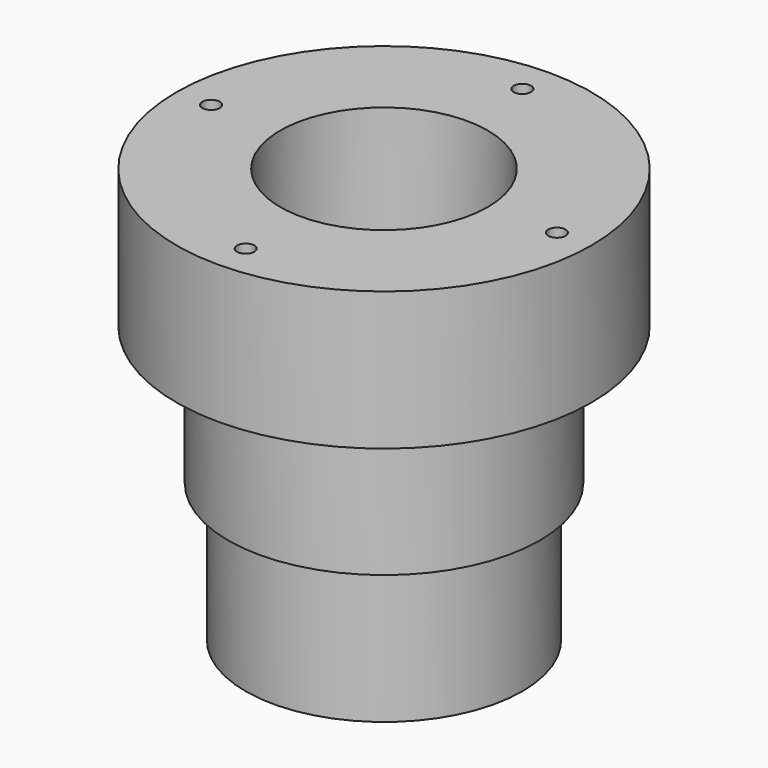
from build123d import *

# Parameters (mm, degrees)
SKETCH_R          = 6
SKETCH_R_2        = 3
SKETCH_R_3        = 0.25
PAD_DEPTH         = 12
CYLINDER_R        = 6
CYLINDER_DEPTH    = 8
CYLINDER001_R     = 4.5
CYLINDER001_DEPTH = 8
CYLINDER002_R     = 4.5
CYLINDER002_DEPTH = 4
CYLINDER003_R     = 4
CYLINDER003_DEPTH = 4
CYLINDER004_R     = 3.5
CYLINDER004_DEPTH = 8


with BuildPart() as part:
    # Sketch → Pad (new body)
    with BuildSketch(Plane.XY):
        Circle(SKETCH_R)
        Circle(SKETCH_R_2, mode=Mode.SUBTRACT)
        with Locations((-5, 0)):
            Circle(SKETCH_R_3, mode=Mode.SUBTRACT)
        with Locations((5, 0)):
            Circle(SKETCH_R_3, mode=Mode.SUBTRACT)
        with Locations((0, 5)):
            Circle(SKETCH_R_3, mode=Mode.SUBTRACT)
        with Locations((0, -5)):
            Circle(SKETCH_R_3, mode=Mode.SUBTRACT)
    extrude(amount=PAD_DEPTH)

    # Cylinder → Cylinder (cut)
    with BuildSketch(Plane.XY):
        Circle(CYLINDER_R)
    extrude(amount=CYLINDER_DEPTH, mode=Mode.SUBTRACT)

    # Cylinder001 → Cylinder001 (join)
    with BuildSketch(Plane.XY):
        Circle(CYLINDER001_R)
    extrude(amount=CYLINDER001_DEPTH)

    # Cylinder002 → Cylinder002 (cut)
    with BuildSketch(Plane.XY):
        Circle(CYLINDER002_R)
    extrude(amount=CYLINDER002_DEPTH, mode=Mode.SUBTRACT)

    # Cylinder003 → Cylinder003 (join)
    with BuildSketch(Plane.XY):
        Circle(CYLINDER003_R)
    extrude(amount=CYLINDER003_DEPTH)

    # Cylinder004 → Cylinder004 (cut)
    with BuildSketch(Plane.XY):
        Circle(CYLINDER004_R)
    extrude(amount=CYLINDER004_DEPTH, mode=Mode.SUBTRACT)


solid = part.part
